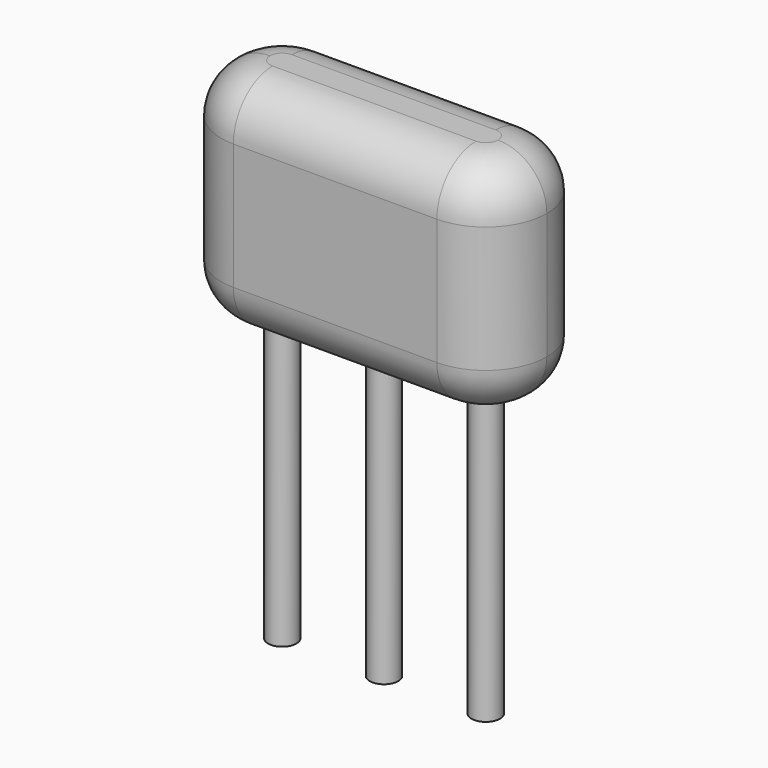
from build123d import *

# Parameters (mm, degrees)
SKETCH_R     = 0.35
PAD_DEPTH    = 8
PAD002_DEPTH = 5.5
FILLET_R     = 1.2
FILLET001_R  = 1.2


with BuildPart() as pad:
    # Sketch → Pad (new body)
    with BuildSketch(Plane.XY.offset(4)):
        Circle(SKETCH_R)
        with Locations((5, 0)):
            Circle(SKETCH_R)
        with Locations((2.5, 0)):
            Circle(SKETCH_R)
    extrude(amount=-PAD_DEPTH)


with BuildPart() as fillet001:
    # Sketch003 → Pad002 (new body)
    with BuildSketch(Plane.XY.offset(3)):
        with BuildLine():
            Line((0, 1.5), (5, 1.5))
            ThreePointArc((6.5, 0), (6.06066, 1.06066), (5, 1.5))
            ThreePointArc((5, -1.5), (6.06066, -1.06066), (6.5, 0))
            Line((5, -1.5), (0, -1.5))
            ThreePointArc((-1.5, 0), (-1.06066, -1.06066), (0, -1.5))
            ThreePointArc((0, 1.5), (-1.06066, 1.06066), (-1.5, 0))
        make_face()
    extrude(amount=PAD002_DEPTH)

    # Fillet
    fillet_edges = [fillet001.edges().sort_by_distance(p)[0] for p in [
        (2.5, 1.5, 8.5),
        (-1.06066, 1.06066, 8.5),
        (-1.06066, -1.06066, 8.5),
        (2.5, -1.5, 8.5),
        (6.06066, -1.06066, 8.5),
        (6.06066, 1.06066, 8.5),
    ]]
    fillet(fillet_edges, radius=FILLET_R)

    # Fillet001
    fillet001_edges = [fillet001.edges().sort_by_distance(p)[0] for p in [
        (6.06066, -1.06066, 3),
        (6.06066, 1.06066, 3),
        (2.5, 1.5, 3),
        (2.5, -1.5, 3),
        (-1.06066, -1.06066, 3),
        (-1.06066, 1.06066, 3),
    ]]
    fillet(fillet001_edges, radius=FILLET001_R)


solid = Compound([pad.part, fillet001.part])
